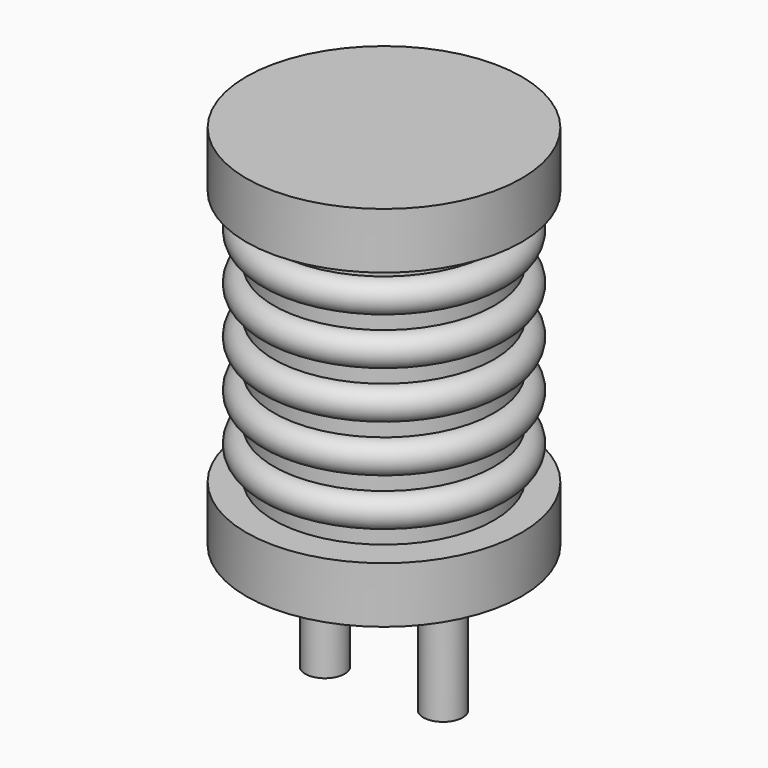
from build123d import *

# Parameters (mm, degrees)
SKETCH001_R  = 0.5
PAD001_DEPTH = 3.5


with BuildPart() as revolution:
    # Sketch → Revolution (revolve)
    with BuildSketch(Plane(origin=(1.5, 0, 0), x_dir=(1, 0, 0), z_dir=(0, -1, 0))):
        Polygon((0, 0.05), (0.5, 0.05), (0.5, 0.2), (3.5, 0.2), (3.5, 1.625), (0.7, 1.625), (0.7, 8.125), (3.5, 8.125), (3.5, 9.55), (0, 9.55), align=None)
    revolve(axis=Axis((1.5, 0, 0), (0, 0, 1)))


with BuildPart() as pad001:
    # Sketch001 → Pad001 (new body)
    with BuildSketch(Plane.XY.offset(0.5)):
        Circle(SKETCH001_R)
        with Locations((3, 0)):
            Circle(SKETCH001_R)
    extrude(amount=-PAD001_DEPTH)


with BuildPart() as l_radial_d7_0mm_p3_00mm:
    # Sketch002 → Revolution001 (revolve)
    with BuildSketch(Plane(origin=(1.5, 0, 0), x_dir=(1, 0, 0), z_dir=(0, -1, 0))):
        with BuildLine():
            Line((2.8, 1.675), (0.7, 1.675))
            Line((0.7, 1.675), (0.7, 8.075))
            Line((0.7, 8.075), (2.8, 8.075))
            Line((2.8, 8.075), (2.8, 7.675))
            ThreePointArc((2.8, 6.875), (3.2, 7.275), (2.8, 7.675))
            Line((2.8, 6.875), (2.8, 6.475))
            ThreePointArc((2.8, 5.675), (3.2, 6.075), (2.8, 6.475))
            Line((2.8, 5.675), (2.8, 5.275))
            ThreePointArc((2.8, 4.475), (3.2, 4.875), (2.8, 5.275))
            Line((2.8, 4.475), (2.8, 4.075))
            ThreePointArc((2.8, 3.275), (3.2, 3.675), (2.8, 4.075))
            Line((2.8, 3.275), (2.8, 2.875))
            ThreePointArc((2.8, 2.075), (3.2, 2.475), (2.8, 2.875))
            Line((2.8, 1.675), (2.8, 2.075))
        make_face()
    revolve(axis=Axis((1.5, 0, 0), (0, 0, 1)))

    add(revolution.part)
    add(pad001.part)


solid = l_radial_d7_0mm_p3_00mm.part
